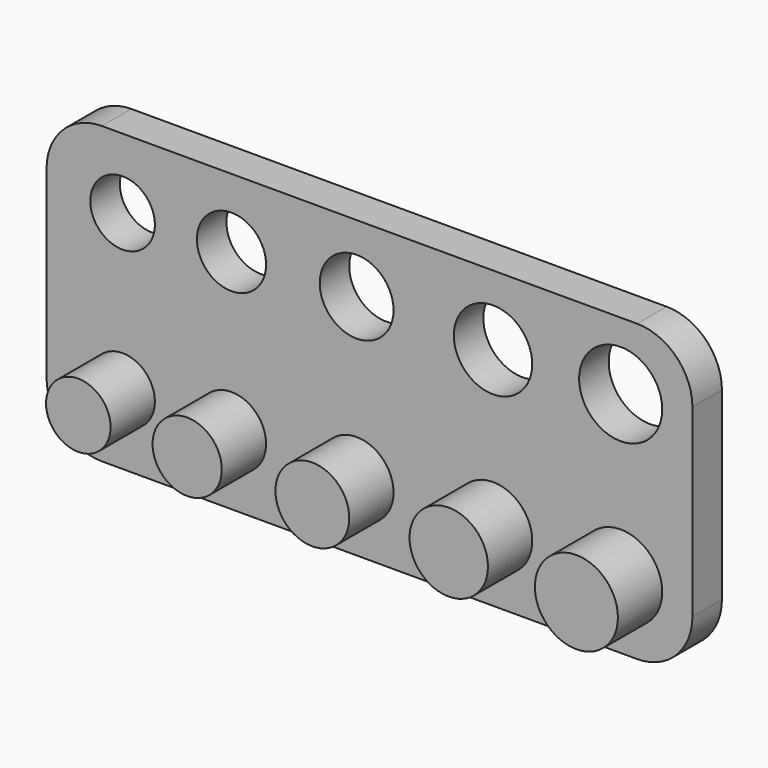
from build123d import *

# Parameters (mm, degrees)
F0_W     = 35
F0_H     = 8
F0_R     = 1.75
F0_R_2   = 1.875
F0_R_3   = 2
F0_R_4   = 2.125
F0_R_5   = 2.25
F1_DEPTH = 2
F2_DEPTH = 2
F3_DEPTH = 5
F4_R     = 3


with BuildPart() as f1:
    # F0 (on Front) → F1 (new body)
    with BuildSketch(Plane.XZ):
        with Locations((17.5, -4)):
            Rectangle(F0_W, F0_H)
        with Locations((4.12062, -3.782185)):
            Circle(F0_R, mode=Mode.SUBTRACT)
        with Locations((10.021019, -3.722706)):
            Circle(F0_R_2, mode=Mode.SUBTRACT)
        with Locations((16.803088, -3.65434)):
            Circle(F0_R_3, mode=Mode.SUBTRACT)
        with Locations((24.195543, -3.784031)):
            Circle(F0_R_4, mode=Mode.SUBTRACT)
        with Locations((31.113254, -3.646227)):
            Circle(F0_R_5, mode=Mode.SUBTRACT)
    extrude(amount=F1_DEPTH)

    # F0 (on Front) → F2 (join)
    with BuildSketch(Plane.XZ):
        with Locations((17.5, -12)):
            Rectangle(F0_W, F0_H)
        with Locations((4.12062, -12.217815)):
            Circle(F0_R, mode=Mode.SUBTRACT)
        with Locations((10.021019, -12.277294)):
            Circle(F0_R_2, mode=Mode.SUBTRACT)
        with Locations((16.803088, -12.34566)):
            Circle(F0_R_3, mode=Mode.SUBTRACT)
        with Locations((24.195543, -12.215969)):
            Circle(F0_R_4, mode=Mode.SUBTRACT)
        with Locations((31.113254, -12.353773)):
            Circle(F0_R_5, mode=Mode.SUBTRACT)
    extrude(amount=F2_DEPTH)

    # F0 (on Front) → F3 (join)
    with BuildSketch(Plane.XZ):
        with Locations((31.113254, -12.353773)):
            Circle(F0_R_5)
        with Locations((24.195543, -12.215969)):
            Circle(F0_R_4)
        with Locations((16.803088, -12.34566)):
            Circle(F0_R_3)
        with Locations((10.021019, -12.277294)):
            Circle(F0_R_2)
        with Locations((4.12062, -12.217815)):
            Circle(F0_R)
    extrude(amount=F3_DEPTH)

    # F4
    f4_edges = [f1.edges().sort_by_distance(p)[0] for p in [
        (0, -1, 0),
        (0, -1, -16),
        (35, -1, -16),
        (35, -1, 0),
    ]]
    fillet(f4_edges, radius=F4_R)


solid = f1.part
